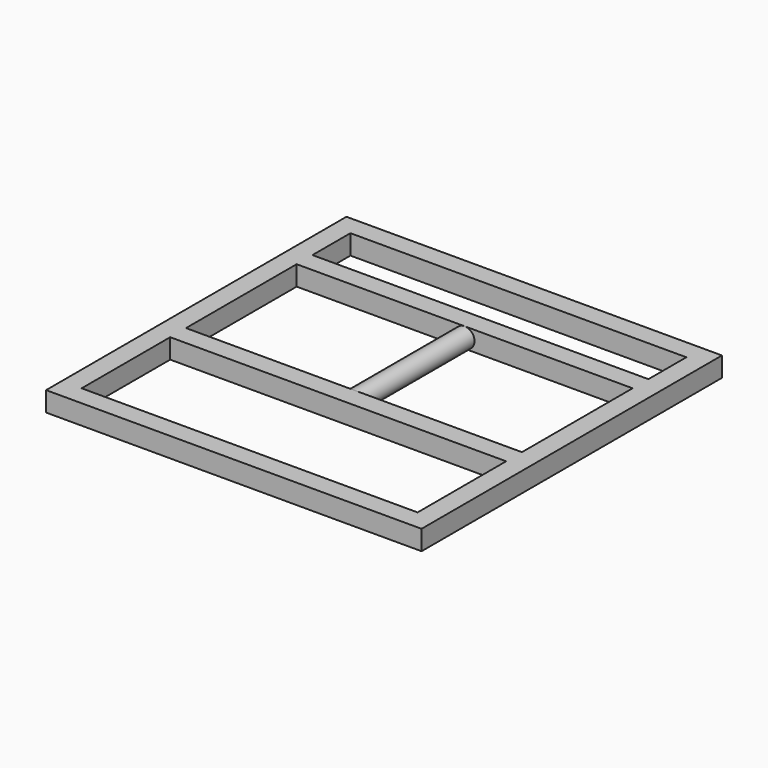
from build123d import *

# Parameters (mm, degrees)
F0_W      = 5
F0_H      = 5
F1_DEPTH  = 90
F2_W      = 5
F2_H      = 5
F3_DEPTH  = 90
F4_W      = 5
F4_H      = 5
F5_DEPTH  = 90
F6_W      = 5
F6_H      = 5
F7_DEPTH  = 90
F8_W      = 5
F8_H      = 5
F9_DEPTH  = 90
F10_R     = 2.5
F11_DEPTH = 35
F12_W     = 5
F12_H     = 5
F13_DEPTH = 85
F14_W     = 5
F14_H     = 4
F15_DEPTH = 0.3
F16_R     = 0.8
F17_DEPTH = 0.3
F18_W     = 2.5
F18_H     = 2.5
F18_W_2   = 2
F18_H_2   = 2
F19_DEPTH = 0.3
F20_R     = 0.8
F21_DEPTH = 0.3
F22_W     = 2.5
F22_H     = 2.5
F22_W_2   = 2
F22_H_2   = 2
F23_DEPTH = 0.3


with BuildPart() as f1:
    # F0 (on Front) → F1 (new body)
    with BuildSketch(Plane.XZ):
        Rectangle(F0_W, F0_H)
    extrude(amount=-F1_DEPTH)

    # F2 (on face) → F3 (join)
    with BuildSketch(Plane(origin=(-2.5, 0, 0), x_dir=(0, -1, 0), z_dir=(-1, 0, 0))):
        with Locations((-87.5, 0)):
            Rectangle(F2_W, F2_H)
    extrude(amount=F3_DEPTH)

    # F4 (on face) → F5 (join)
    with BuildSketch(Plane.XZ.offset(-85)):
        with Locations((-90, 0)):
            Rectangle(F4_W, F4_H)
    extrude(amount=F5_DEPTH)

    # F6 (on face) → F7 (join)
    with BuildSketch(Plane.YZ.offset(-87.5)):
        with Locations((-2.5, 0)):
            Rectangle(F6_W, F6_H)
    extrude(amount=F7_DEPTH)

    # F8 (on face) → F9 (join)
    with BuildSketch(Plane.YZ.offset(-87.5)):
        with Locations((70.5, 0)):
            Rectangle(F8_W, F8_H)
    extrude(amount=F9_DEPTH)

    # F10 (on face) → F11 (join)
    with BuildSketch(Plane.XZ.offset(-68)):
        with Locations((-45, 0)):
            Circle(F10_R)
    extrude(amount=F11_DEPTH)

    # F12 (on face) → F13 (join)
    with BuildSketch(Plane.YZ.offset(-87.5)):
        with Locations((30.5, 0)):
            Rectangle(F12_W, F12_H)
    extrude(amount=F13_DEPTH)

    # F14 (on face) → F15 (cut)
    with BuildSketch(Plane(origin=(0, 0, -2.5), x_dir=(1, 0, 0), z_dir=(0, 0, -1))):
        with Locations((-65, -30.5)):
            Rectangle(F14_W, F14_H)
        with Locations((-25, -30.5)):
            Rectangle(F14_W, F14_H)
    extrude(amount=-F15_DEPTH, mode=Mode.SUBTRACT)

    # F16 (on face) → F17 (join)
    with BuildSketch(Plane(origin=(0, 0, -2.2), x_dir=(1, 0, 0), z_dir=(0, 0, -1))):
        with Locations((-65, -30.5)):
            Circle(F16_R)
    extrude(amount=F17_DEPTH)

    # F18 (on face) → F19 (cut)
    with BuildSketch(Plane(origin=(0, 0, -2.2), x_dir=(1, 0, 0), z_dir=(0, 0, -1))):
        with Locations((-65, -30.5)):
            Rectangle(F18_W, F18_H)
        with Locations((-65, -30.5)):
            Rectangle(F18_W_2, F18_H_2, mode=Mode.SUBTRACT)
    extrude(amount=-F19_DEPTH, mode=Mode.SUBTRACT)

    # F20 (on face) → F21 (join)
    with BuildSketch(Plane(origin=(0, 0, -2.2), x_dir=(1, 0, 0), z_dir=(0, 0, -1))):
        with Locations((-25, -30.5)):
            Circle(F20_R)
    extrude(amount=F21_DEPTH)

    # F22 (on face) → F23 (cut)
    with BuildSketch(Plane(origin=(0, 0, -2.2), x_dir=(1, 0, 0), z_dir=(0, 0, -1))):
        with Locations((-25, -30.5)):
            Rectangle(F22_W, F22_H)
        with Locations((-25, -30.5)):
            Rectangle(F22_W_2, F22_H_2, mode=Mode.SUBTRACT)
    extrude(amount=-F23_DEPTH, mode=Mode.SUBTRACT)


solid = f1.part
